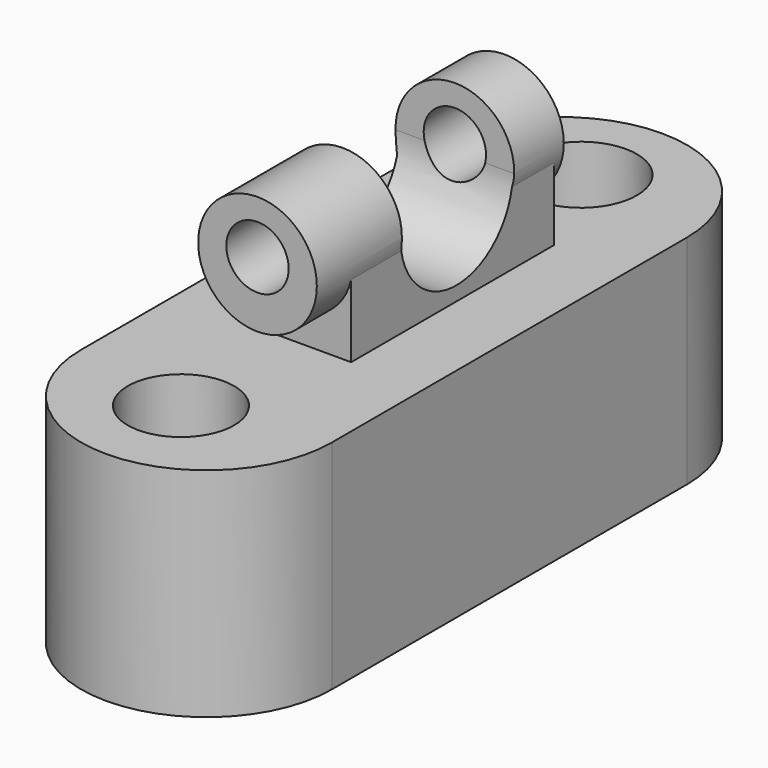
from build123d import *

# Parameters (mm, degrees)
F0_W      = 29.3072769418
F0_H      = 51.8513377756
F1_DEPTH  = 25.4
F2_R      = 6.2145404026
F2_R_2    = 6.5329388007
F3_DEPTH  = 73.914
F4_W      = 13.2390642539
F4_H      = 29.6439919621
F5_DEPTH  = 36.322
F6_R      = 6.9321854406
F7_DEPTH  = 18.034
F9_DEPTH  = 24.892
F10_R     = 3.6433318827
F11_DEPTH = 55.88


with BuildPart() as f1:
    # F0 (on Top) → F1 (new body)
    with BuildSketch(Plane.XY):
        with Locations((0.6441161968, -0.3612739965)):
            Rectangle(F0_W, F0_H)
        with BuildLine():
            Line((15.2977546677, -26.2869428843), (-14.0095222741, -26.2869428843))
            ThreePointArc((-14.0095222741, -26.2869428843), (0.6441161968, -40.9405813552), (15.2977546677, -26.2869428843))
        make_face()
        with BuildLine():
            ThreePointArc((15.2977546677, 25.5643948913), (0.6441161968, 40.2180333622), (-14.0095222741, 25.5643948913))
            Line((-14.0095222741, 25.5643948913), (15.2977546677, 25.5643948913))
        make_face()
    extrude(amount=F1_DEPTH)

    # F2 (on Top) → F3 (cut)
    with BuildSketch(Plane.XY):
        with Locations((0, -29.2122848332)):
            Circle(F2_R)
        with Locations((0, 29.2122848332)):
            Circle(F2_R_2)
    extrude(amount=F3_DEPTH, mode=Mode.SUBTRACT)

    # F4 (on Top) → F5 (join)
    with BuildSketch(Plane.XY):
        with Locations((0.1439033076, 2.0146397874)):
            Rectangle(F4_W, F4_H)
    extrude(amount=F5_DEPTH)

    # F6 (on Front) → F7 (join, symmetric)
    with BuildSketch(Plane.XZ):
        with Locations((0, 35.4015231133)):
            Circle(F6_R)
    extrude(amount=F7_DEPTH, both=True)

    # F8 (on Right) → F9 (cut, symmetric)
    with BuildSketch(Plane.YZ):
        with BuildLine():
            Line((-1.3480700781, 42.4513481557), (-5.6122136302, 42.4513481557))
            Line((-5.6122136302, 42.4513481557), (-5.6122136302, 35.2562069893))
            ThreePointArc((-5.6122136302, 35.2562069893), (-4.4661066114, 39.4381017942), (-1.3480700781, 42.4513481557))
        make_face()
        with BuildLine():
            ThreePointArc((6.5285728542, 42.4513481557), (2.590251388, 43.4586720075), (-1.3480700781, 42.4513481557))
            Line((-1.3480700781, 42.4513481557), (6.5285728542, 42.4513481557))
        make_face()
        with BuildLine():
            Line((6.5285728542, 42.4513481557), (-1.3480700781, 42.4513481557))
            ThreePointArc((-1.3480700781, 42.4513481557), (-4.4661066114, 39.4381017942), (-5.6122136302, 35.2562069893))
            Line((-5.6122136302, 35.2562069893), (10.7927164063, 35.2562069893))
            ThreePointArc((10.7927164063, 35.2562069893), (9.6466093875, 39.4381017942), (6.5285728542, 42.4513481557))
        make_face()
        with BuildLine():
            Line((10.7927164063, 35.2562069893), (-5.6122136302, 35.2562069893))
            ThreePointArc((-5.6122136302, 35.2562069893), (2.590251388, 27.053741971), (10.7927164063, 35.2562069893))
        make_face()
        with BuildLine():
            Line((10.7927164063, 42.4513481557), (6.5285728542, 42.4513481557))
            ThreePointArc((6.5285728542, 42.4513481557), (9.6466093875, 39.4381017942), (10.7927164063, 35.2562069893))
            Line((10.7927164063, 35.2562069893), (10.7927164063, 42.4513481557))
        make_face()
    extrude(amount=F9_DEPTH, both=True, mode=Mode.SUBTRACT)

    # F10 (on Front) → F11 (cut, symmetric)
    with BuildSketch(Plane.XZ):
        with Locations((0, 36.1196212471)):
            Circle(F10_R)
    extrude(amount=F11_DEPTH, both=True, mode=Mode.SUBTRACT)


solid = f1.part
